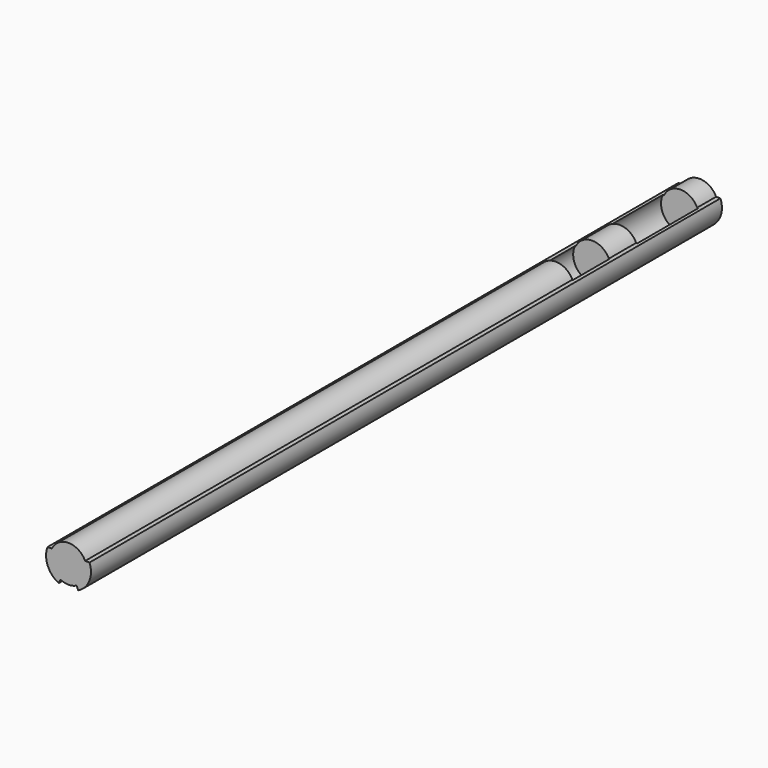
from build123d import *

# Parameters (mm, degrees)
CYLINDER001_R     = 2.413
CYLINDER001_DEPTH = 5.78
CYLINDER_R        = 2.4765
CYLINDER_DEPTH    = 9.67
PAD_DEPTH         = 100


with BuildPart() as cylinder001:
    # Cylinder001 → Cylinder001 (new body)
    with BuildSketch(Plane.XZ.offset(17)):
        Circle(CYLINDER001_R)
    extrude(amount=CYLINDER001_DEPTH)


with BuildPart() as cylinder:
    # Cylinder → Cylinder (new body)
    with BuildSketch(Plane.XZ.offset(3)):
        Circle(CYLINDER_R)
    extrude(amount=CYLINDER_DEPTH)


with BuildPart() as cut001:
    # Sketch → Pad (new body)
    with BuildSketch(Plane.XZ):
        with BuildLine():
            ThreePointArc((2.1082, 1.008031), (0, 2.3368), (-2.1082, 1.008031))
            Line((-2.660218, 1.008031), (-2.1082, 1.008031))
            ThreePointArc((-2.660218, 1.008031), (-2.642503, -1.053595), (-1.23687, -2.561843))
            Line((-1.016, -2.104371), (-1.23687, -2.561843))
            ThreePointArc((-1.016, -2.104371), (0, -2.3368), (1.016, -2.104371))
            Line((1.23687, -2.561843), (1.016, -2.104371))
            ThreePointArc((1.23687, -2.561843), (2.642503, -1.053595), (2.660218, 1.008031))
            Line((2.660218, 1.008031), (2.1082, 1.008031))
        make_face()
    extrude(amount=PAD_DEPTH)

    # Cut: cut Cylinder
    add(cylinder.part, mode=Mode.SUBTRACT)

    # Cut001: cut Cylinder001
    add(cylinder001.part, mode=Mode.SUBTRACT)


solid = cut001.part
